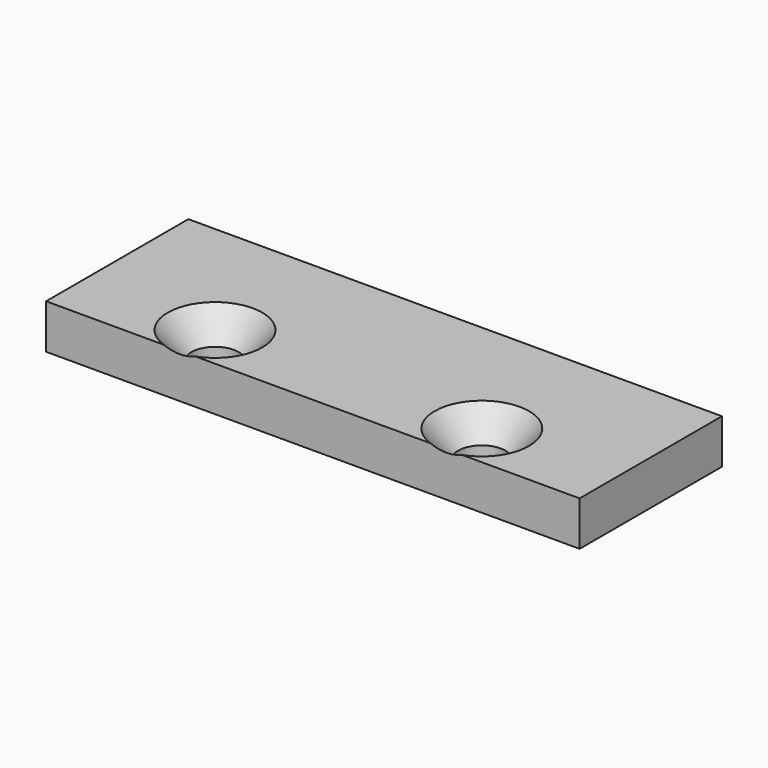
from build123d import *

# Parameters (mm, degrees)
F0_W           = 76.2
F0_H           = 25.4
F0_R           = 3.571875
F1_DEPTH       = 6.35
F2_D           = 6.7564
F2_DEPTH       = 19.05
F2_CSINK_D     = 13.4874
F2_CSINK_ANGLE = 82
F2_TIP         = 2.0298273432


with BuildPart() as f1:
    # F0 (on Top) → F1 (new body)
    with BuildSketch(Plane.XY):
        Rectangle(F0_W, F0_H)
        with Locations((-19.05, -6.35)):
            Circle(F0_R, mode=Mode.SUBTRACT)
        with Locations((19.05, -6.35)):
            Circle(F0_R, mode=Mode.SUBTRACT)
        with Locations((19.05, -6.35)):
            Circle(F0_R)
        with Locations((-19.05, -6.35)):
            Circle(F0_R)
    extrude(amount=-F1_DEPTH)

    # F2
    with Locations(Plane.XY):
        with Locations((-19.05, -6.35), (19.05, -6.35)):
            CounterSinkHole(F2_D / 2, F2_CSINK_D / 2, depth=F2_DEPTH, counter_sink_angle=F2_CSINK_ANGLE)
            with Locations((0, 0, -(F2_DEPTH + F2_TIP / 2))):  # 118° drill point
                Cone(0, F2_D / 2, F2_TIP, mode=Mode.SUBTRACT)


solid = f1.part
